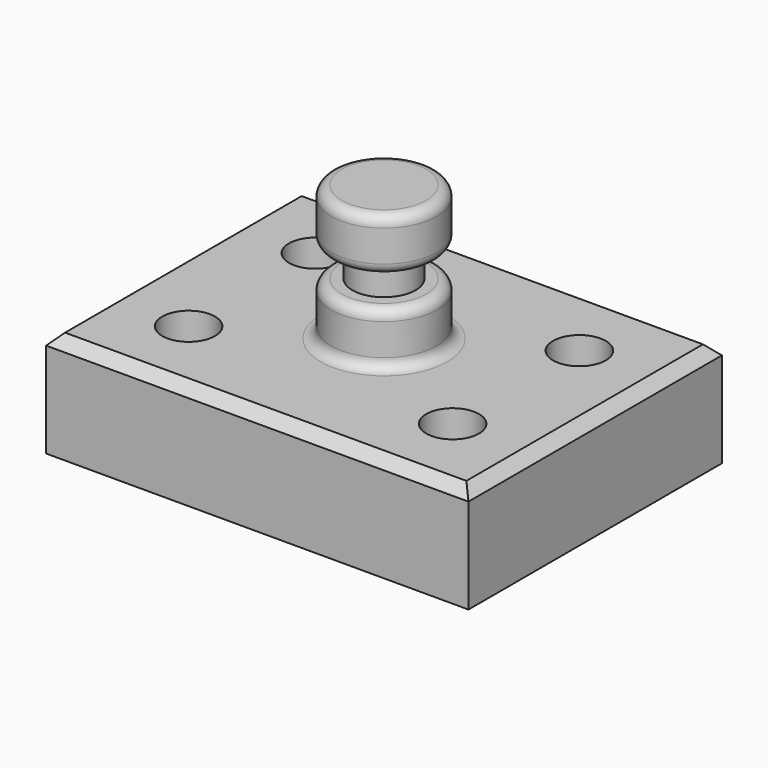
from build123d import *

# Parameters (mm, degrees)
F0_W     = 101.6
F0_H     = 76.2
F1_DEPTH = 25.4
F2_R     = 6.35
F3_DEPTH = 25.401
F4_W     = 12.7
F4_H     = 12.7
F6_W     = 7.62
F6_H     = 7.1126786113
F8_W     = 12.7
F8_H     = 12.7
F10_R    = 2.54
F11_SIZE = 2.54
F12_R    = 2.54


with BuildPart() as f1:
    # F0 (on Top) → F1 (new body)
    with BuildSketch(Plane.XY):
        Rectangle(F0_W, F0_H)
    extrude(amount=F1_DEPTH)

    # F2 (on face) → F3 (cut, through all)
    with BuildSketch(Plane(origin=(0, 0, 0), x_dir=(1, 0, 0), z_dir=(0, 0, -1))):
        with Locations((31.75, 19.05)):
            Circle(F2_R)
        with Locations((31.75, -19.05)):
            Circle(F2_R)
        with Locations((-31.75, -19.05)):
            Circle(F2_R)
        with Locations((-31.75, 19.05)):
            Circle(F2_R)
    extrude(amount=-F3_DEPTH, mode=Mode.SUBTRACT)

    # F4 (on Front) → F5 (revolve)
    with BuildSketch(Plane.XZ):
        with Locations((6.35, 31.75)):
            Rectangle(F4_W, F4_H)
    revolve(axis=Axis((0, 0, 31.75), (0, 0, 1)))

    # F6 (on Front) → F7 (revolve)
    with BuildSketch(Plane.XZ):
        with Locations((3.81, 41.6563393056)):
            Rectangle(F6_W, F6_H)
    revolve(axis=Axis((0, 0, 41.6563393056), (0, 0, 1)))

    # F8 (on Front) → F9 (revolve)
    with BuildSketch(Plane.XZ):
        with Locations((-6.35, 51.5626786113)):
            Rectangle(F8_W, F8_H)
    revolve(axis=Axis((0, 0, 51.5626786113), (0, 0, -1)))

    # F10
    f10_edges = [f1.edges().sort_by_distance(p)[0] for p in [
        (12.7, 0, 57.912679),
    ]]
    fillet(f10_edges, radius=F10_R)

    # F11
    f11_edges = [f1.edges().sort_by_distance(p)[0] for p in [
        (0, -38.1, 25.4),
        (-50.8, 0, 25.4),
        (0, 38.1, 25.4),
        (50.8, 0, 25.4),
    ]]
    chamfer(f11_edges, length=F11_SIZE)

    # F12
    f12_edges = [f1.edges().sort_by_distance(p)[0] for p in [
        (-12.7, 0, 25.4),
        (-12.7, 0, 38.1),
        (12.7, 0, 45.212679),
    ]]
    fillet(f12_edges, radius=F12_R)


solid = f1.part
